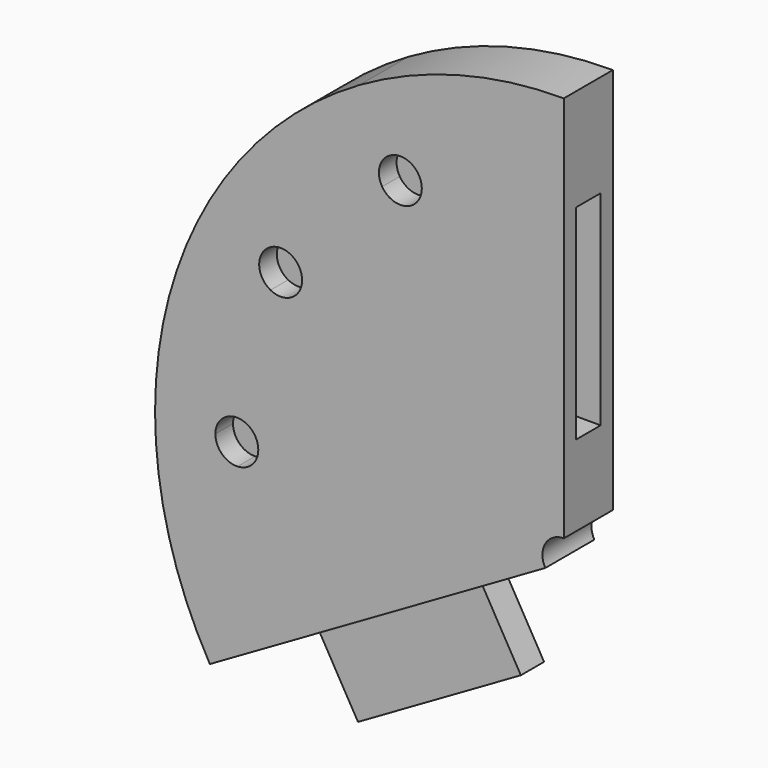
from build123d import *

# Parameters (mm, degrees)
F1_DEPTH = 19.05
F2_W     = 4.7625
F2_H     = 31.75
F3_DEPTH = 25.4
F4_W     = 29.21
F4_H     = 9.017
F5_DEPTH = 24.638
F7_DEPTH = 6.858
F8_R     = 6.6675
F9_DEPTH = 25.4


with BuildPart() as f1:
    # F0 (on Front) → F1 (new body)
    with BuildSketch(Plane.XZ):
        with BuildLine():
            Line((0, 101.6), (0, 127))
            ThreePointArc((0, 127), (-32.870018728, 122.6725799387), (-63.5, 109.9852262806))
            Line((-63.5, 109.9852262806), (-54.102, 93.7074127911))
            ThreePointArc((-54.102, 93.7074127911), (-48.9873127514, 94.3385338445), (-44.9764745007, 91.1025616626))
            ThreePointArc((-44.9764745007, 91.1025616626), (-23.092636652, 98.9408415795), (0, 101.6))
        make_face()
        with BuildLine():
            Line((-108.204, 0), (-127, 0))
            ThreePointArc((-127, 0), (-122.6725799387, -32.870018728), (-109.9852262806, -63.5))
            Line((-109.9852262806, -63.5), (-87.9881810245, -50.8))
            ThreePointArc((-87.9881810245, -50.8), (-97.2316006056, -29.4716108088), (-101.38537, -6.600511341))
            ThreePointArc((-101.38537, -6.600511341), (-106.1932232408, -4.7450096164), (-108.204, 0))
        make_face()
        with BuildLine():
            Line((0, 0), (0, 101.6))
            ThreePointArc((0, 101.6), (-23.092636652, 98.9408415795), (-44.9764745007, 91.1025616626))
            ThreePointArc((-44.9764745007, 91.1025616626), (-44.3940895106, 89.5935242281), (-44.196, 87.9881810245))
            ThreePointArc((-44.196, 87.9881810245), (-45.0807682334, 84.6861810245), (-47.498, 82.2689492579))
            Line((-47.498, 82.2689492579), (0, 0))
        make_face()
        with BuildLine():
            Line((-87.9881810245, -50.8), (0, 0))
            Line((0, 0), (-94.996, 0))
            ThreePointArc((-94.996, 0), (-96.8549903836, -4.5932232408), (-101.38537, -6.600511341))
            ThreePointArc((-101.38537, -6.600511341), (-97.2316006056, -29.4716108088), (-87.9881810245, -50.8))
        make_face()
        with BuildLine():
            Line((-54.102, 93.7074127911), (-63.5, 109.9852262806))
            ThreePointArc((-63.5, 109.9852262806), (-89.8025612107, 89.8025612107), (-109.9852262806, 63.5))
            Line((-109.9852262806, 63.5), (-93.7074127911, 54.102))
            ThreePointArc((-93.7074127911, 54.102), (-89.5935242281, 57.2059104894), (-84.5020503216, 56.4088954993))
            ThreePointArc((-84.5020503216, 56.4088954993), (-71.8420489686, 71.8420489686), (-56.4088954993, 84.5020503216))
            ThreePointArc((-56.4088954993, 84.5020503216), (-57.2059104894, 89.5935242281), (-54.102, 93.7074127911))
        make_face()
        with BuildLine():
            Line((-93.7074127911, 54.102), (-109.9852262806, 63.5))
            ThreePointArc((-109.9852262806, 63.5), (-122.6725799387, 32.870018728), (-127, 0))
            Line((-127, 0), (-108.204, 0))
            ThreePointArc((-108.204, 0), (-106.1932232408, 4.7450096164), (-101.38537, 6.600511341))
            ThreePointArc((-101.38537, 6.600511341), (-98.138063951, 26.2960149824), (-91.1025616626, 44.9764745007))
            ThreePointArc((-91.1025616626, 44.9764745007), (-94.3385338445, 48.9873127514), (-93.7074127911, 54.102))
        make_face()
        with BuildLine():
            Line((-82.2689492579, 47.498), (0, 0))
            Line((0, 0), (-47.498, 82.2689492579))
            ThreePointArc((-47.498, 82.2689492579), (-52.4053432036, 81.5822705351), (-56.4088954993, 84.5020503216))
            ThreePointArc((-56.4088954993, 84.5020503216), (-71.8420489686, 71.8420489686), (-84.5020503216, 56.4088954993))
            ThreePointArc((-84.5020503216, 56.4088954993), (-82.2160400369, 54.0086140963), (-81.3841810245, 50.8))
            ThreePointArc((-81.3841810245, 50.8), (-81.6092068677, 49.0907590261), (-82.2689492579, 47.498))
        make_face()
        with BuildLine():
            Line((-94.996, 0), (0, 0))
            Line((0, 0), (-82.2689492579, 47.498))
            ThreePointArc((-82.2689492579, 47.498), (-86.1754937759, 44.44964718), (-91.1025616626, 44.9764745007))
            ThreePointArc((-91.1025616626, 44.9764745007), (-98.138063951, 26.2960149824), (-101.38537, 6.600511341))
            ThreePointArc((-101.38537, 6.600511341), (-96.8549903836, 4.5932232408), (-94.996, 0))
        make_face()
        with BuildLine():
            Line((-101.6, 0), (-108.204, 0))
            ThreePointArc((-108.204, 0), (-106.1932232408, -4.7450096164), (-101.38537, -6.600511341))
            ThreePointArc((-101.38537, -6.600511341), (-101.5463283236, -3.302), (-101.6, 0))
        make_face()
        with BuildLine():
            ThreePointArc((-101.38537, -6.600511341), (-96.8549903836, -4.5932232408), (-94.996, 0))
            Line((-94.996, 0), (-101.6, 0))
            ThreePointArc((-101.6, 0), (-101.5463283236, -3.302), (-101.38537, -6.600511341))
        make_face()
        with BuildLine():
            ThreePointArc((-101.38537, 6.600511341), (-106.1932232408, 4.7450096164), (-108.204, 0))
            Line((-108.204, 0), (-101.6, 0))
            ThreePointArc((-101.6, 0), (-101.5463283236, 3.302), (-101.38537, 6.600511341))
        make_face()
        with BuildLine():
            Line((-101.6, 0), (-94.996, 0))
            ThreePointArc((-94.996, 0), (-96.8549903836, 4.5932232408), (-101.38537, 6.600511341))
            ThreePointArc((-101.38537, 6.600511341), (-101.5463283236, 3.302), (-101.6, 0))
        make_face()
        with BuildLine():
            ThreePointArc((-91.1025616626, 44.9764745007), (-86.1754937759, 44.44964718), (-82.2689492579, 47.498))
            Line((-82.2689492579, 47.498), (-87.9881810245, 50.8))
            ThreePointArc((-87.9881810245, 50.8), (-89.5926999893, 47.9135482785), (-91.1025616626, 44.9764745007))
        make_face()
        with BuildLine():
            Line((-87.9881810245, 50.8), (-93.7074127911, 54.102))
            ThreePointArc((-93.7074127911, 54.102), (-94.3385338445, 48.9873127514), (-91.1025616626, 44.9764745007))
            ThreePointArc((-91.1025616626, 44.9764745007), (-89.5926999893, 47.9135482785), (-87.9881810245, 50.8))
        make_face()
        with BuildLine():
            ThreePointArc((-84.5020503216, 56.4088954993), (-89.5935242281, 57.2059104894), (-93.7074127911, 54.102))
            Line((-93.7074127911, 54.102), (-87.9881810245, 50.8))
            ThreePointArc((-87.9881810245, 50.8), (-86.2906999893, 53.6327800451), (-84.5020503216, 56.4088954993))
        make_face()
        with BuildLine():
            Line((-87.9881810245, 50.8), (-82.2689492579, 47.498))
            ThreePointArc((-82.2689492579, 47.498), (-81.6092068677, 49.0907590261), (-81.3841810245, 50.8))
            ThreePointArc((-81.3841810245, 50.8), (-82.2160400369, 54.0086140963), (-84.5020503216, 56.4088954993))
            ThreePointArc((-84.5020503216, 56.4088954993), (-86.2906999893, 53.6327800451), (-87.9881810245, 50.8))
        make_face()
        with BuildLine():
            Line((-47.498, 82.2689492579), (-50.8, 87.9881810245))
            ThreePointArc((-50.8, 87.9881810245), (-53.6327800451, 86.2906999893), (-56.4088954993, 84.5020503216))
            ThreePointArc((-56.4088954993, 84.5020503216), (-52.4053432036, 81.5822705351), (-47.498, 82.2689492579))
        make_face()
        with BuildLine():
            ThreePointArc((-44.196, 87.9881810245), (-44.3940895106, 89.5935242281), (-44.9764745007, 91.1025616626))
            ThreePointArc((-44.9764745007, 91.1025616626), (-47.9135482785, 89.5926999893), (-50.8, 87.9881810245))
            Line((-50.8, 87.9881810245), (-47.498, 82.2689492579))
            ThreePointArc((-47.498, 82.2689492579), (-45.0807682334, 84.6861810245), (-44.196, 87.9881810245))
        make_face()
        with BuildLine():
            ThreePointArc((-44.9764745007, 91.1025616626), (-48.9873127514, 94.3385338445), (-54.102, 93.7074127911))
            Line((-54.102, 93.7074127911), (-50.8, 87.9881810245))
            ThreePointArc((-50.8, 87.9881810245), (-47.9135482785, 89.5926999893), (-44.9764745007, 91.1025616626))
        make_face()
        with BuildLine():
            Line((-50.8, 87.9881810245), (-54.102, 93.7074127911))
            ThreePointArc((-54.102, 93.7074127911), (-57.2059104894, 89.5935242281), (-56.4088954993, 84.5020503216))
            ThreePointArc((-56.4088954993, 84.5020503216), (-53.6327800451, 86.2906999893), (-50.8, 87.9881810245))
        make_face()
    extrude(amount=F1_DEPTH)

    # F2 (on face) → F3 (cut)
    with BuildSketch(Plane.YZ):
        with Locations((-7.14375, 47.625)):
            Rectangle(F2_W, F2_H)
        with Locations((-11.90625, 47.625)):
            Rectangle(F2_W, F2_H)
        with Locations((-11.90625, 79.375)):
            Rectangle(F2_W, F2_H)
        with Locations((-7.14375, 79.375)):
            Rectangle(F2_W, F2_H)
    extrude(amount=-F3_DEPTH, mode=Mode.SUBTRACT)

    # F4 (on face) → F5 (join)
    with BuildSketch(Plane(origin=(0, 0, 0), x_dir=(0.8660254038, 0, 0.5), z_dir=(0.5, 0, -0.8660254038))):
        with Locations((-78.105, 9.525)):
            Rectangle(F4_W, F4_H)
        with Locations((-48.895, 9.525)):
            Rectangle(F4_W, F4_H)
    extrude(amount=F5_DEPTH)

    # F6 (on face) → F7 (cut)
    with BuildSketch(Plane.XZ.offset(19.05)):
        with BuildLine():
            ThreePointArc((-101.3812226563, -6.6639097176), (-96.808640371, -4.6366398561), (-94.9325, 0))
            Line((-94.9325, 0), (-101.6, 0))
            ThreePointArc((-101.6, 0), (-101.5452909343, -3.33375), (-101.3812226563, -6.6639097176))
        make_face()
        with BuildLine():
            ThreePointArc((-101.3812226563, -6.6639097176), (-101.5452909343, -3.33375), (-101.6, 0))
            Line((-101.6, 0), (-108.2675, 0))
            ThreePointArc((-108.2675, 0), (-106.2366398561, -4.791359629), (-101.3812226563, -6.6639097176))
        make_face()
        with BuildLine():
            Line((-108.2675, 0), (-101.6, 0))
            ThreePointArc((-101.6, 0), (-101.5452909343, 3.33375), (-101.3812226563, 6.6639097176))
            ThreePointArc((-101.3812226563, 6.6639097176), (-106.2366398561, 4.791359629), (-108.2675, 0))
        make_face()
        with BuildLine():
            Line((-101.6, 0), (-94.9325, 0))
            ThreePointArc((-94.9325, 0), (-96.808640371, 4.6366398561), (-101.3812226563, 6.6639097176))
            ThreePointArc((-101.3812226563, 6.6639097176), (-101.5452909343, 3.33375), (-101.6, 0))
        make_face()
        with BuildLine():
            ThreePointArc((-91.1306691458, 44.9194962242), (-86.1570617951, 44.3888722819), (-82.2139566448, 47.46625))
            Line((-82.2139566448, 47.46625), (-87.9881810245, 50.8))
            ThreePointArc((-87.9881810245, 50.8), (-89.6076765838, 47.8855332773), (-91.1306691458, 44.9194962242))
        make_face()
        with BuildLine():
            ThreePointArc((-91.1306691458, 44.9194962242), (-89.6076765838, 47.8855332773), (-87.9881810245, 50.8))
            Line((-87.9881810245, 50.8), (-93.7624054042, 54.13375))
            ThreePointArc((-93.7624054042, 54.13375), (-94.3993087426, 48.9688807706), (-91.1306691458, 44.9194962242))
        make_face()
        with BuildLine():
            Line((-93.7624054042, 54.13375), (-87.9881810245, 50.8))
            ThreePointArc((-87.9881810245, 50.8), (-86.2739265838, 53.659757657), (-84.4667594283, 56.4617264321))
            ThreePointArc((-84.4667594283, 56.4617264321), (-89.6079491136, 57.2677590855), (-93.7624054042, 54.13375))
        make_face()
        with BuildLine():
            Line((-87.9881810245, 50.8), (-82.2139566448, 47.46625))
            ThreePointArc((-82.2139566448, 47.46625), (-81.5478705777, 49.0743240168), (-81.3206810245, 50.8))
            ThreePointArc((-81.3206810245, 50.8), (-82.1600323157, 54.0385550603), (-84.4667594283, 56.4617264321))
            ThreePointArc((-84.4667594283, 56.4617264321), (-86.2739265838, 53.659757657), (-87.9881810245, 50.8))
        make_face()
        with BuildLine():
            ThreePointArc((-56.4577228186, 84.4694355027), (-52.4186754183, 81.525109972), (-47.4686565195, 82.2181248589))
            Line((-47.4686565195, 82.2181248589), (-50.8, 87.9881810245))
            ThreePointArc((-50.8, 87.9881810245), (-53.6577130389, 86.2751982405), (-56.4577228186, 84.4694355027))
        make_face()
        with BuildLine():
            Line((-54.1313434805, 93.7582371901), (-50.8, 87.9881810245))
            ThreePointArc((-50.8, 87.9881810245), (-47.8876568733, 89.6065417209), (-44.9238155794, 91.128539952))
            ThreePointArc((-44.9238155794, 91.128539952), (-48.9702785065, 94.3947024516), (-54.1313434805, 93.7582371901))
        make_face()
        with BuildLine():
            ThreePointArc((-56.4577228186, 84.4694355027), (-53.6577130389, 86.2751982405), (-50.8, 87.9881810245))
            Line((-50.8, 87.9881810245), (-54.1313434805, 93.7582371901))
            ThreePointArc((-54.1313434805, 93.7582371901), (-57.2630710525, 89.6068564428), (-56.4577228186, 84.4694355027))
        make_face()
        with BuildLine():
            Line((-50.8, 87.9881810245), (-47.4686565195, 82.2181248589))
            ThreePointArc((-47.4686565195, 82.2181248589), (-45.0299438344, 84.656837544), (-44.1373130391, 87.9881810245))
            ThreePointArc((-44.1373130391, 87.9881810245), (-44.3369289475, 89.6068564428), (-44.9238155794, 91.128539952))
            ThreePointArc((-44.9238155794, 91.128539952), (-47.8876568733, 89.6065417209), (-50.8, 87.9881810245))
        make_face()
    extrude(amount=-F7_DEPTH, mode=Mode.SUBTRACT)

    # F8 (on face) → F9 (cut)
    with BuildSketch(Plane.XZ.offset(19.05)):
        Circle(F8_R)
    extrude(amount=-F9_DEPTH, mode=Mode.SUBTRACT)


solid = f1.part
